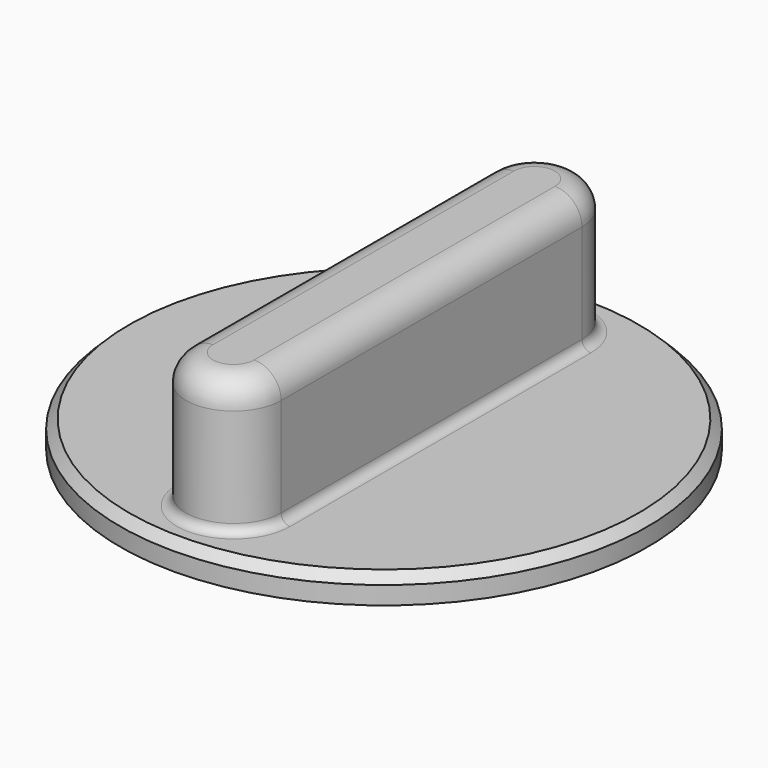
from build123d import *

# Parameters (mm, degrees)
SKETCH016_R     = 29.334526
PAD012_DEPTH    = 3
PAD013_DEPTH    = 15
CHAMFER001_SIZE = 1
FILLET009_R     = 1
FILLET010_R     = 3


with BuildPart() as part:
    # Sketch016 (on DatumPlane) → Pad012 (new body)
    with BuildSketch(Plane(origin=(-153.083157, 155.978406, 843), x_dir=(0, 1, 0), z_dir=(0, 0, 1))):
        Circle(SKETCH016_R)
    extrude(amount=PAD012_DEPTH)

    # Sketch017 (on Face3 of Pad012) → Pad013 (join)
    with BuildSketch(Plane(origin=(-153.083157, 155.978406, 846), x_dir=(0, 1, 0), z_dir=(0, 0, 1))):
        with BuildLine():
            ThreePointArc((-20.899311, 5.287957), (-26.187268, 0), (-20.899311, -5.287957))
            Line((-20.899311, -5.287957), (20.899313, -5.287957))
            ThreePointArc((20.899313, -5.287957), (26.18727, 0), (20.899313, 5.287957))
            Line((-20.899311, 5.287957), (20.899313, 5.287957))
        make_face()
    extrude(amount=PAD013_DEPTH)

    # Chamfer001
    chamfer001_edges = [part.edges().sort_by_distance(p)[0] for p in [
        (-153.083157, 126.64388, 846),
    ]]
    chamfer(chamfer001_edges, length=CHAMFER001_SIZE)

    # Fillet009
    fillet009_edges = [part.edges().sort_by_distance(p)[0] for p in [
        (-147.7952, 155.978406, 846),
    ]]
    fillet(fillet009_edges, radius=FILLET009_R)

    # Fillet010
    fillet010_edges = [part.edges().sort_by_distance(p)[0] for p in [
        (-147.7952, 155.978406, 861),
    ]]
    fillet(fillet010_edges, radius=FILLET010_R)


solid = part.part
